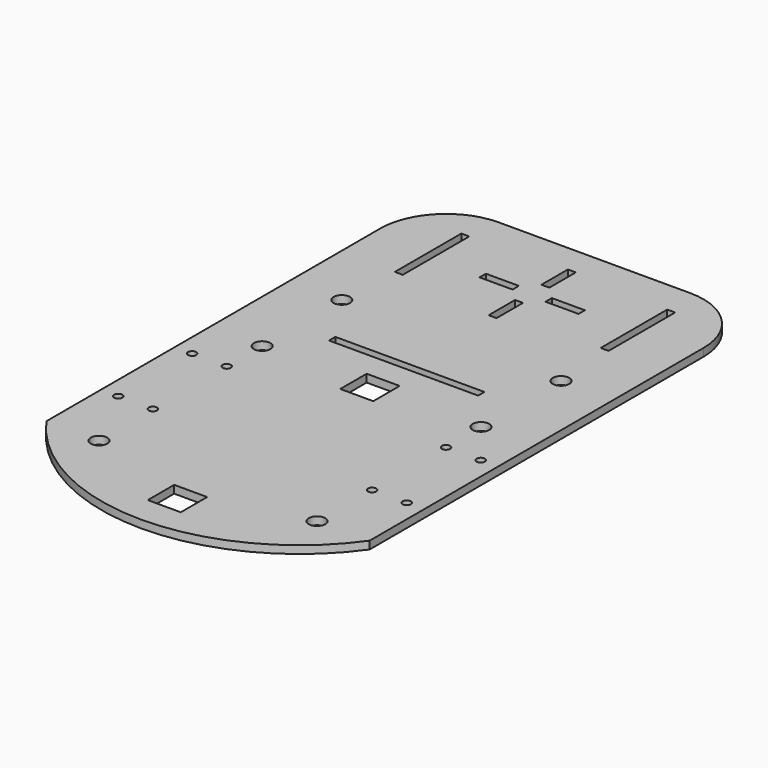
from build123d import *

# Parameters (mm, degrees)
F0_R     = 3.175
F0_R_2   = 1.5875
F0_W     = 12.7
F0_H     = 12.7
F0_W_2   = 3.048
F0_H_2   = 32.004
F0_H_3   = 3.048
F0_W_3   = 57.404
F1_DEPTH = 2.9972


with BuildPart() as f1:
    # F0 (on Top) → F1 (new body)
    with BuildSketch(Plane.XY):
        with BuildLine():
            Line((-62.23, 43.975756), (-62.23, -43.975756))
            ThreePointArc((-62.23, -43.975756), (0, -76.2), (62.23, -43.975756))
            Line((62.23, -43.975756), (62.23, 43.975756))
            Line((62.23, 43.975756), (62.23, 67.242156))
            Line((62.23, 67.242156), (62.23, 116.660069))
            ThreePointArc((62.23, 116.660069), (54.790512, 134.620581), (36.83, 142.060069))
            Line((36.83, 142.060069), (-36.83, 142.060069))
            ThreePointArc((-36.83, 142.060069), (-54.790512, 134.620581), (-62.23, 116.660069))
            Line((-62.23, 116.660069), (-62.23, 67.202083))
            Line((-62.23, 67.202083), (-62.23, 43.975756))
        make_face()
        with Locations((-41.961629, -43.975756)):
            Circle(F0_R, mode=Mode.SUBTRACT)
        with Locations((-55.5498, -17.78)):
            Circle(F0_R_2, mode=Mode.SUBTRACT)
        with Locations((-42.2148, -17.78)):
            Circle(F0_R_2, mode=Mode.SUBTRACT)
        with Locations((-55.5498, 17.78)):
            Circle(F0_R_2, mode=Mode.SUBTRACT)
        with Locations((-42.2148, 17.78)):
            Circle(F0_R_2, mode=Mode.SUBTRACT)
        with Locations((0, -58.672148)):
            Rectangle(F0_W, F0_H, mode=Mode.SUBTRACT)
        with Locations((41.961629, -43.975756)):
            Circle(F0_R, mode=Mode.SUBTRACT)
        with Locations((42.2148, -17.78)):
            Circle(F0_R_2, mode=Mode.SUBTRACT)
        with Locations((55.5498, -17.78)):
            Circle(F0_R_2, mode=Mode.SUBTRACT)
        with Locations((42.2148, 17.78)):
            Circle(F0_R_2, mode=Mode.SUBTRACT)
        with Locations((55.5498, 17.78)):
            Circle(F0_R_2, mode=Mode.SUBTRACT)
        with Locations((-42.117723, 34.727012)):
            Circle(F0_R, mode=Mode.SUBTRACT)
        with Locations((-42.193912, 73.141733)):
            Circle(F0_R, mode=Mode.SUBTRACT)
        with Locations((-39.624, 113.358069)):
            Rectangle(F0_W_2, F0_H_2, mode=Mode.SUBTRACT)
        with Locations((-12.7, 112.022428)):
            Rectangle(F0_W, F0_H_3, mode=Mode.SUBTRACT)
        with Locations((0, 33.952818)):
            Rectangle(F0_W, F0_H, mode=Mode.SUBTRACT)
        with Locations((0, 51.636069)):
            Rectangle(F0_W_3, F0_H_3, mode=Mode.SUBTRACT)
        with Locations((42.117723, 34.727012)):
            Circle(F0_R, mode=Mode.SUBTRACT)
        with Locations((42.193912, 73.141733)):
            Circle(F0_R, mode=Mode.SUBTRACT)
        with Locations((0, 99.322428)):
            Rectangle(F0_W_2, F0_H, mode=Mode.SUBTRACT)
        with Locations((12.7, 112.022428)):
            Rectangle(F0_W, F0_H_3, mode=Mode.SUBTRACT)
        with Locations((0, 124.722428)):
            Rectangle(F0_W_2, F0_H, mode=Mode.SUBTRACT)
        with Locations((39.624, 113.358069)):
            Rectangle(F0_W_2, F0_H_2, mode=Mode.SUBTRACT)
    extrude(amount=F1_DEPTH)


solid = f1.part
